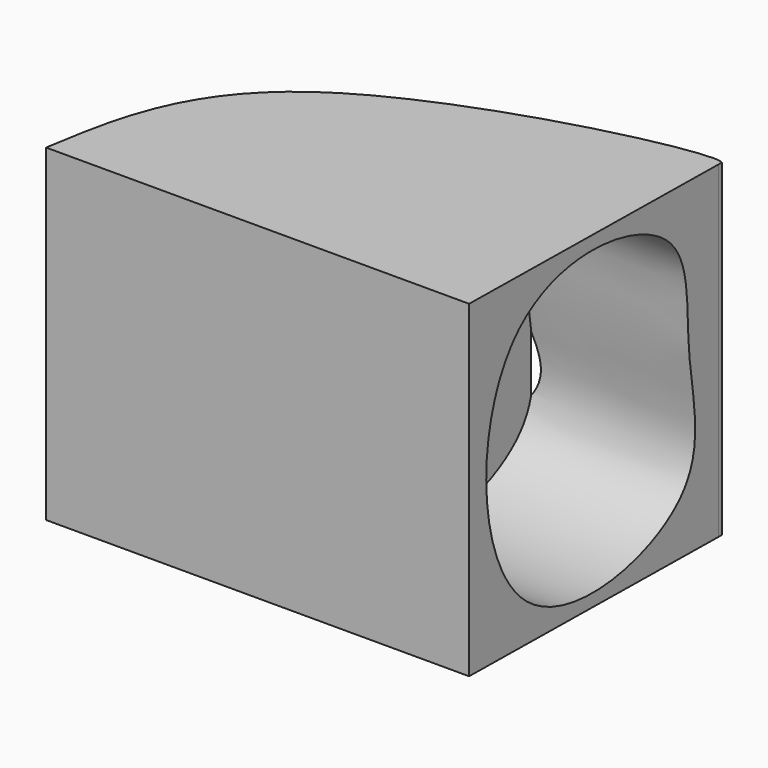
from build123d import *

# Parameters (mm, degrees)
F1_DEPTH = 20
F3_DEPTH = 10


with BuildPart() as f1:
    # F0 (on Top) → F1 (new body)
    with BuildSketch(Plane.XY):
        with BuildLine():
            add(Edge.make_bspline(
                [(-31.8000018597, 9.1500002891), (-31.0652071062, 13.6890567824), (-29.4484436774, 23.6763090125), (-6.5512415539, 28.7391560968), (-5.7000000961, 28.0500017107)],
                knots=[0, 0, 0, 0, 0.4136574007, 0.910167301, 0.910167301, 0.910167301, 0.910167301], degree=3))
            Line((-31.8000018597, 9.1500002891), (-6.0000000522, 9.1500002891))
            Line((-6.0000000522, 9.1500002891), (-5.7040104388, 27.7973500647))
            Line((-5.7040104388, 27.7973500647), (-5.7000000961, 28.0500017107))
        make_face()
    extrude(amount=F1_DEPTH)

    # F2 (on face) → F3 (cut)
    with BuildSketch(Plane(origin=(-6.1436902015, 0.0975188705, 0), x_dir=(0.0158710131, 0.9998740475, 0), z_dir=(0.9998740475, -0.0158710131, 0))):
        with BuildLine():
            add(Edge.make_bspline(
                [(12.8039661795, 17.1590913087), (15.8180471512, 20.1309769332), (26.1538102441, 18.9645296951), (24.8740330547, 10.784341605), (27.7750213725, 1.9319473459), (9.7600574137, -1.9499761699), (9.3125957908, 13.7165980363), (12.8039661795, 17.1590913087)],
                knots=[0, 0, 0, 0, 0.208829576, 0.372592896, 0.5438100889, 0.7581015889, 1, 1, 1, 1], degree=3))
        make_face()
    extrude(amount=-F3_DEPTH, mode=Mode.SUBTRACT)


solid = f1.part
